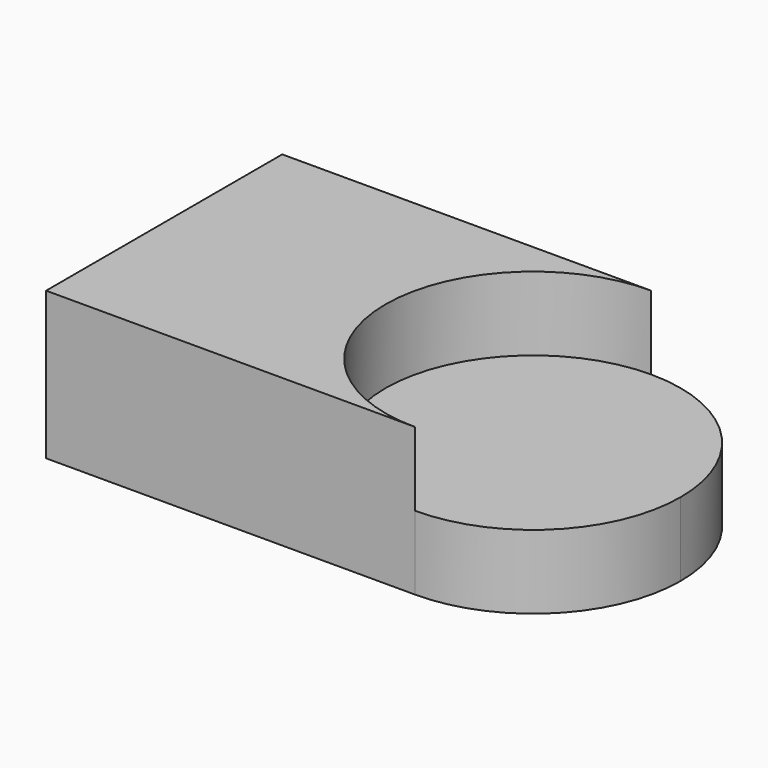
from build123d import *

# Parameters (mm, degrees)
F1_DEPTH = 10
F2_DEPTH = 10


with BuildPart() as f1:
    # F0 (on Top) → F1 (new body, symmetric)
    with BuildSketch(Plane.XY):
        with BuildLine():
            Line((50, 0), (0, 0))
            Line((0, 0), (0, -40))
            Line((0, -40), (50, -40))
            ThreePointArc((50, -40), (30, -20), (50, 0))
        make_face()
    extrude(amount=F1_DEPTH, both=True)

    # F0 (on Top) → F2 (join)
    with BuildSketch(Plane.XY):
        with BuildLine():
            Line((50, -40), (50, 0))
            ThreePointArc((50, 0), (30, -20), (50, -40))
        make_face()
        with BuildLine():
            ThreePointArc((70, -20), (64.142136, -5.857864), (50, 0))
            Line((50, 0), (50, -40))
            ThreePointArc((50, -40), (64.142136, -34.142136), (70, -20))
        make_face()
    extrude(amount=-F2_DEPTH)


solid = f1.part
